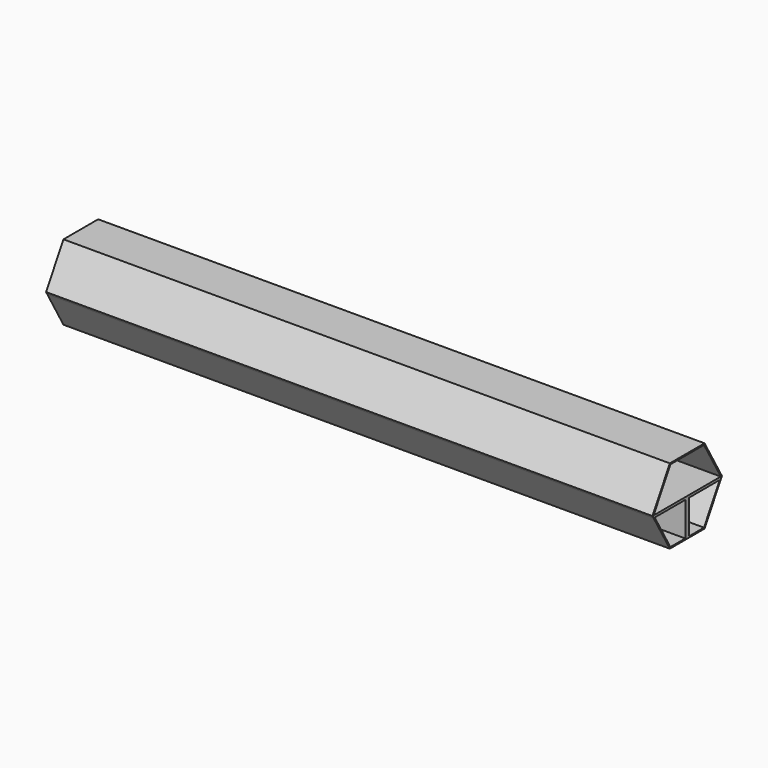
from build123d import *

# Parameters (mm, degrees)
F0_W     = 2
F0_H     = 14
F0_H_2   = 1
F1_DEPTH = 250


with BuildPart() as f1:
    # F0 (on Right) → F1 (new body)
    with BuildSketch(Plane.YZ):
        Polygon((16.7431578065, -1), (8.6602540378, -15), (1, -15), (-1, -15), (-8.6602540378, -15), (-16.7431578065, -1), (-17.3205080757, -1), (-8.9489291724, -15.5), (8.9489291724, -15.5), (17.3205080757, -1), align=None)
        Polygon((17.3205080757, 0), (16.7431578065, -1), (17.3205080757, -1), (17.8978583449, 0), (8.9489291724, 15.5), (-8.9489291724, 15.5), (-17.8978583449, 0), (-17.3205080757, -1), (-16.7431578065, -1), (-17.3205080757, 0), (-8.6602540378, 15), (8.6602540378, 15), align=None)
        Polygon((-16.7431578065, -1), (-1, -1), (-1, 0), (-17.3205080757, 0), align=None)
        with Locations((0, -8)):
            Rectangle(F0_W, F0_H)
        with Locations((0, -0.5)):
            Rectangle(F0_W, F0_H_2)
        Polygon((1, -1), (16.7431578065, -1), (17.3205080757, 0), (1, 0), align=None)
    extrude(amount=F1_DEPTH)


solid = f1.part
